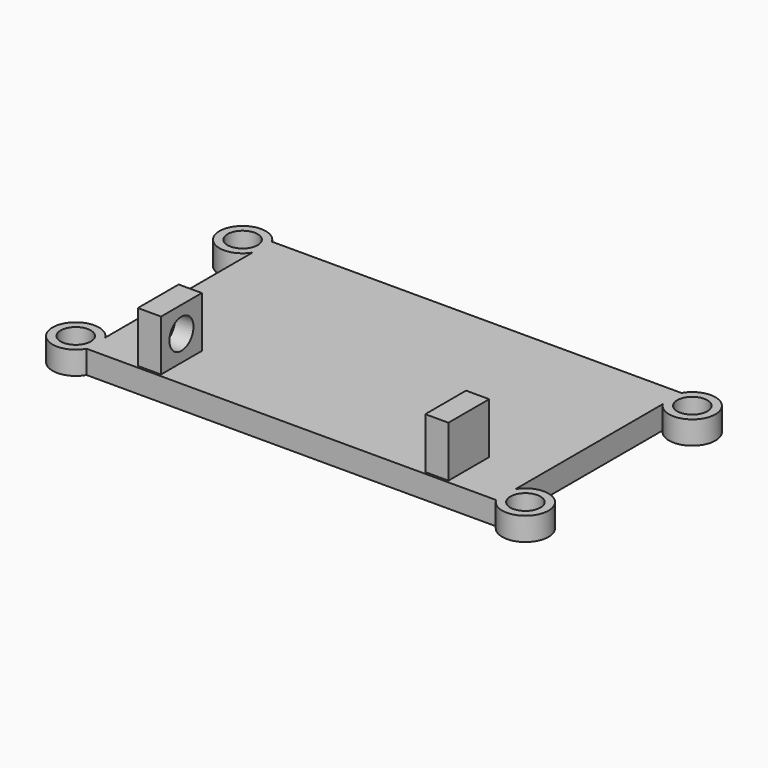
from build123d import *

# Parameters (mm, degrees)
CYLINDER093_R     = 10
CYLINDER093_DEPTH = 2
CYLINDER091_R     = 10
CYLINDER091_DEPTH = 2
CYLINDER090_R     = 10
CYLINDER090_DEPTH = 2
CYLINDER087_R     = 6.5
CYLINDER087_DEPTH = 10
CYLINDER086_R     = 10
CYLINDER086_DEPTH = 10
CYLINDER088_R     = 6.5
CYLINDER088_DEPTH = 10
CYLINDER089_R     = 10
CYLINDER089_DEPTH = 10
CYLINDER084_R     = 6.5
CYLINDER084_DEPTH = 10
CYLINDER082_R     = 10
CYLINDER082_DEPTH = 10
CYLINDER083_R     = 6.5
CYLINDER083_DEPTH = 10
CYLINDER085_R     = 10
CYLINDER085_DEPTH = 10
BOX025_W          = 177
BOX025_H          = 100
BOX025_DEPTH      = 10
CYLINDER069_R     = 2.6
CYLINDER069_DEPTH = 2
CYLINDER068_R     = 2.5
CYLINDER068_DEPTH = 5
CYLINDER071_R     = 2.6
CYLINDER071_DEPTH = 2
CYLINDER070_R     = 2.5
CYLINDER070_DEPTH = 5
CYLINDER073_R     = 2.6
CYLINDER073_DEPTH = 2
CYLINDER072_R     = 2.5
CYLINDER072_DEPTH = 5
CYLINDER066_R     = 2.6
CYLINDER066_DEPTH = 2
CYLINDER067_R     = 2.5
CYLINDER067_DEPTH = 5
CYLINDER063_R     = 6.5
CYLINDER063_DEPTH = 130
BOX024_W          = 10
BOX024_H          = 22
BOX024_DEPTH      = 22
BOX023_W          = 10
BOX023_H          = 22
BOX023_DEPTH      = 22
CYLINDER092_R     = 10
CYLINDER092_DEPTH = 2


with BuildPart() as cilindro093:
    # Cylinder093 → Cylinder093 (new body)
    with BuildSketch(Plane(origin=(97, 0, 0), x_dir=(1, 0, 0), z_dir=(0, 0, 1))):
        Circle(CYLINDER093_R)
    extrude(amount=CYLINDER093_DEPTH)


with BuildPart() as cilindro091:
    # Cylinder091 → Cylinder091 (new body)
    with BuildSketch(Plane(origin=(-97, 90, 0), x_dir=(1, 0, 0), z_dir=(0, 0, 1))):
        Circle(CYLINDER091_R)
    extrude(amount=CYLINDER091_DEPTH)


with BuildPart() as cilindro090:
    # Cylinder090 → Cylinder090 (new body)
    with BuildSketch(Plane(origin=(-97, 0, 0), x_dir=(1, 0, 0), z_dir=(0, 0, 1))):
        Circle(CYLINDER090_R)
    extrude(amount=CYLINDER090_DEPTH)


with BuildPart() as cilindro087:
    # Cylinder087 → Cylinder087 (new body)
    with BuildSketch(Plane(origin=(0, 20, 0), x_dir=(1, 0, 0), z_dir=(0, 0, 1))):
        Circle(CYLINDER087_R)
    extrude(amount=CYLINDER087_DEPTH)


with BuildPart() as obj1:
    # Cylinder086 → Cylinder086 (new body)
    with BuildSketch(Plane(origin=(0, 20, 0), x_dir=(1, 0, 0), z_dir=(0, 0, 1))):
        Circle(CYLINDER086_R)
    extrude(amount=CYLINDER086_DEPTH)

    # Cut051: cut Cilindro087
    add(cilindro087.part, mode=Mode.SUBTRACT)


with BuildPart() as obj1_1:
    # Cut051 placement: moved
    add(obj1.part.moved(Location((-97, -20, 0))))


with BuildPart() as cilindro088:
    # Cylinder088 → Cylinder088 (new body)
    with BuildSketch(Plane(origin=(0, 20, 0), x_dir=(1, 0, 0), z_dir=(0, 0, 1))):
        Circle(CYLINDER088_R)
    extrude(amount=CYLINDER088_DEPTH)


with BuildPart() as fusion034:
    # Cylinder089 → Cylinder089 (new body)
    with BuildSketch(Plane(origin=(0, 20, 0), x_dir=(1, 0, 0), z_dir=(0, 0, 1))):
        Circle(CYLINDER089_R)
    extrude(amount=CYLINDER089_DEPTH)

    # Cut052: cut Cilindro088
    add(cilindro088.part, mode=Mode.SUBTRACT)


with BuildPart() as fusion034_1:
    # Cut052 placement: moved
    add(fusion034.part.moved(Location((97, -20, 0))))

    # Fusion034: union obj1
    add(obj1_1.part)


with BuildPart() as fusion034_2:
    # Fusion034 placement: moved
    add(fusion034_1.part.moved(Location((0, 90, 0))))


with BuildPart() as cilindro084:
    # Cylinder084 → Cylinder084 (new body)
    with BuildSketch(Plane(origin=(0, 20, 0), x_dir=(1, 0, 0), z_dir=(0, 0, 1))):
        Circle(CYLINDER084_R)
    extrude(amount=CYLINDER084_DEPTH)


with BuildPart() as obj2:
    # Cylinder082 → Cylinder082 (new body)
    with BuildSketch(Plane(origin=(0, 20, 0), x_dir=(1, 0, 0), z_dir=(0, 0, 1))):
        Circle(CYLINDER082_R)
    extrude(amount=CYLINDER082_DEPTH)

    # Cut049: cut Cilindro084
    add(cilindro084.part, mode=Mode.SUBTRACT)


with BuildPart() as obj2_1:
    # Cut049 placement: moved
    add(obj2.part.moved(Location((-97, -20, 0))))


with BuildPart() as cilindro083:
    # Cylinder083 → Cylinder083 (new body)
    with BuildSketch(Plane(origin=(0, 20, 0), x_dir=(1, 0, 0), z_dir=(0, 0, 1))):
        Circle(CYLINDER083_R)
    extrude(amount=CYLINDER083_DEPTH)


with BuildPart() as fusion033:
    # Cylinder085 → Cylinder085 (new body)
    with BuildSketch(Plane(origin=(0, 20, 0), x_dir=(1, 0, 0), z_dir=(0, 0, 1))):
        Circle(CYLINDER085_R)
    extrude(amount=CYLINDER085_DEPTH)

    # Cut050: cut Cilindro083
    add(cilindro083.part, mode=Mode.SUBTRACT)


with BuildPart() as fusion033_1:
    # Cut050 placement: moved
    add(fusion033.part.moved(Location((97, -20, 0))))

    # Fusion033: union obj2
    add(obj2_1.part)


with BuildPart() as obj3:
    # Box025 → Box025 (new body)
    with BuildSketch(Plane(origin=(-88.5, -5, 0), x_dir=(1, 0, 0), z_dir=(0, 0, 1))):
        with Locations((88.5, 50)):
            Rectangle(BOX025_W, BOX025_H)
    extrude(amount=BOX025_DEPTH)


with BuildPart() as cilindro069:
    # Cylinder069 → Cylinder069 (new body)
    with BuildSketch(Plane.XY.offset(5)):
        Circle(CYLINDER069_R)
    extrude(amount=CYLINDER069_DEPTH)


with BuildPart() as obj4:
    # Cylinder068 → Cylinder068 (new body)
    with BuildSketch(Plane.XY):
        Circle(CYLINDER068_R)
    extrude(amount=CYLINDER068_DEPTH)

    # Fusion024: union Cilindro069
    add(cilindro069.part)


with BuildPart() as obj4_1:
    # Fusion024 placement: moved
    add(obj4.part.moved(Location((3, 8, -11))))


with BuildPart() as cilindro071:
    # Cylinder071 → Cylinder071 (new body)
    with BuildSketch(Plane.XY.offset(5)):
        Circle(CYLINDER071_R)
    extrude(amount=CYLINDER071_DEPTH)


with BuildPart() as obj5:
    # Cylinder070 → Cylinder070 (new body)
    with BuildSketch(Plane.XY):
        Circle(CYLINDER070_R)
    extrude(amount=CYLINDER070_DEPTH)

    # Fusion025: union Cilindro071
    add(cilindro071.part)


with BuildPart() as obj5_1:
    # Fusion025 placement: moved
    add(obj5.part.moved(Location((127, 8, -11))))


with BuildPart() as cilindro073:
    # Cylinder073 → Cylinder073 (new body)
    with BuildSketch(Plane.XY.offset(5)):
        Circle(CYLINDER073_R)
    extrude(amount=CYLINDER073_DEPTH)


with BuildPart() as obj6:
    # Cylinder072 → Cylinder072 (new body)
    with BuildSketch(Plane.XY):
        Circle(CYLINDER072_R)
    extrude(amount=CYLINDER072_DEPTH)

    # Fusion026: union Cilindro073
    add(cilindro073.part)


with BuildPart() as obj6_1:
    # Fusion026 placement: moved
    add(obj6.part.moved(Location((127, -8, -11))))


with BuildPart() as cilindro066:
    # Cylinder066 → Cylinder066 (new body)
    with BuildSketch(Plane.XY.offset(5)):
        Circle(CYLINDER066_R)
    extrude(amount=CYLINDER066_DEPTH)


with BuildPart() as fusion027:
    # Cylinder067 → Cylinder067 (new body)
    with BuildSketch(Plane.XY):
        Circle(CYLINDER067_R)
    extrude(amount=CYLINDER067_DEPTH)

    # Fusion023: union Cilindro066
    add(cilindro066.part)


with BuildPart() as fusion027_1:
    # Fusion023 placement: moved
    add(fusion027.part.moved(Location((3, -8, -11))))

    # Fusion027: union obj4, obj5, obj6
    add(obj4_1.part)
    add(obj5_1.part)
    add(obj6_1.part)


with BuildPart() as cilindro063:
    # Cylinder063 → Cylinder063 (new body)
    with BuildSketch(Plane(origin=(0, 0, 0), x_dir=(0, 0, -1), z_dir=(1, 0, 0))):
        Circle(CYLINDER063_R)
    extrude(amount=CYLINDER063_DEPTH)


with BuildPart() as cubo022:
    # Box024 → Box024 (new body)
    with BuildSketch(Plane(origin=(122, -11, -11), x_dir=(1, 0, 0), z_dir=(0, 0, 1))):
        with Locations((5, 11)):
            Rectangle(BOX024_W, BOX024_H)
    extrude(amount=BOX024_DEPTH)


with BuildPart() as obj7:
    # Box023 → Box023 (new body)
    with BuildSketch(Plane(origin=(-2, -11, -11), x_dir=(1, 0, 0), z_dir=(0, 0, 1))):
        with Locations((5, 11)):
            Rectangle(BOX023_W, BOX023_H)
    extrude(amount=BOX023_DEPTH)

    # Fusion021: union Cubo022
    add(cubo022.part)

    # Cut046: cut Cilindro063
    add(cilindro063.part, mode=Mode.SUBTRACT)

    # Cut047: cut Fusion027
    add(fusion027_1.part, mode=Mode.SUBTRACT)


with BuildPart() as obj7_1:
    # Cut047 placement: moved
    add(obj7.part.moved(Location((-65, 7, 21))))


with BuildPart() as obj8:
    # Cylinder092 → Cylinder092 (new body)
    with BuildSketch(Plane(origin=(97, 90, 0), x_dir=(1, 0, 0), z_dir=(0, 0, 1))):
        Circle(CYLINDER092_R)
    extrude(amount=CYLINDER092_DEPTH)

    # Fusion035: union Cilindro093, Cilindro091, Cilindro090, Fusion034, Fusion033, obj3, obj7
    add(cilindro093.part)
    add(cilindro091.part)
    add(cilindro090.part)
    add(fusion034_2.part)
    add(fusion033_1.part)
    add(obj3.part)
    add(obj7_1.part)


solid = obj8.part
